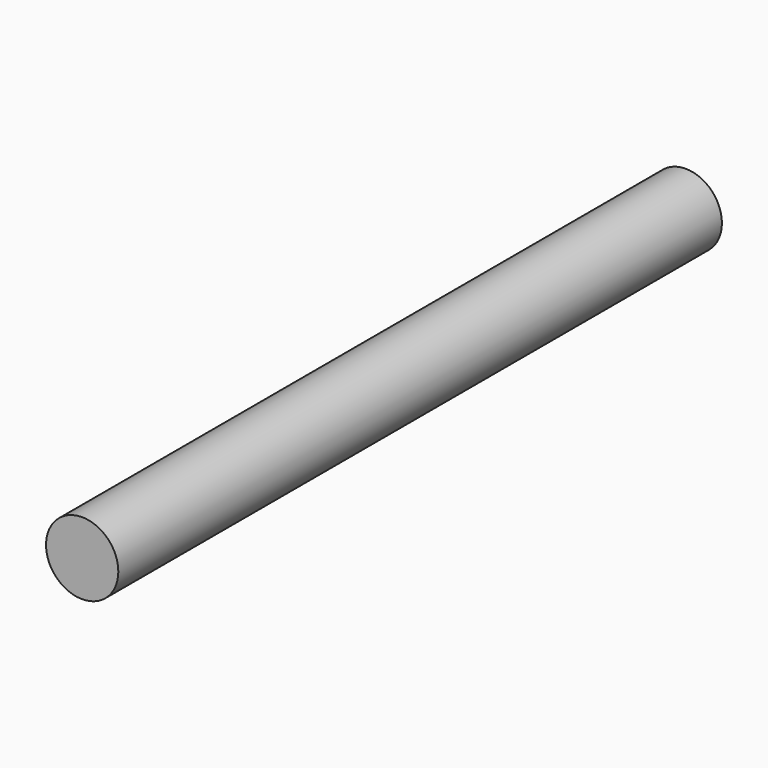
from build123d import *

# Parameters (mm, degrees)
SKETCH_R  = 4.6
PAD_DEPTH = 96


with BuildPart() as part:
    # Sketch → Pad (new body)
    with BuildSketch(Plane.XZ):
        Circle(SKETCH_R)
    extrude(amount=PAD_DEPTH)


solid = part.part
